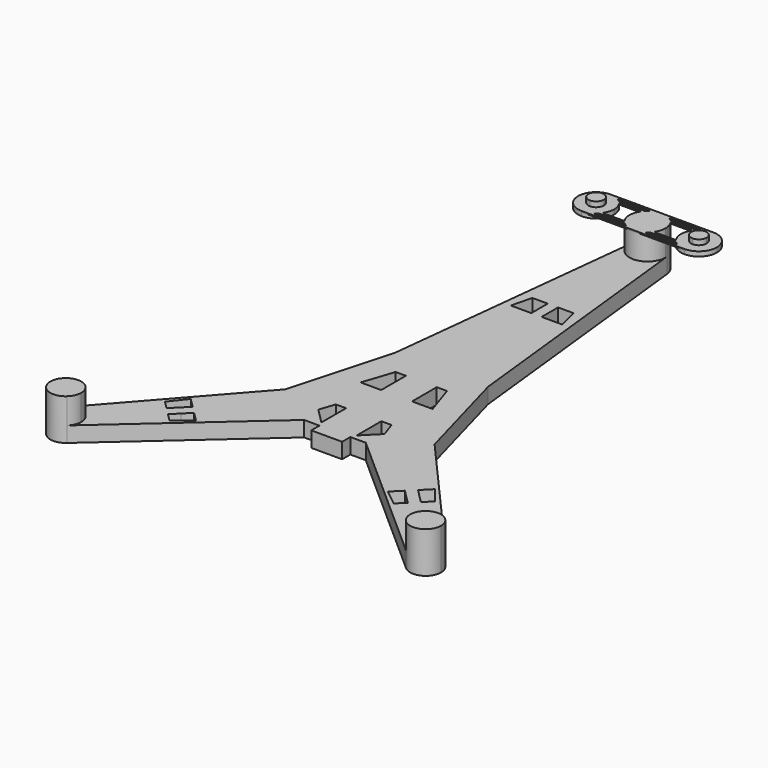
from build123d import *

# Parameters (mm, degrees)
F1_DEPTH = 7.62
F2_DEPTH = 20.32
F4_DEPTH = 0.508
F5_DEPTH = 2.286
F6_DEPTH = 2.54


with BuildPart() as f1:
    # F0 (on Top) → F1 (new body)
    with BuildSketch(Plane.XY):
        with BuildLine():
            Line((94.5998428664, -75.4545931138), (36.8017739816, -9.8610056184))
            Line((36.8017739816, -9.8610056184), (15.24, -25.4))
            Line((15.24, -25.4), (83.8282511998, -86.1946768381))
            ThreePointArc((83.8282511998, -86.1946768381), (83.5024239133, -75.0962557957), (94.5998428664, -75.4545931138))
        make_face()
        Polygon((47.393896559, -51.9350811917), (52.0636297419, -47.2653480087), (55.6557321903, -50.8574504572), (59.2478346388, -54.4495529056), (55.4019981606, -58.2953893838), align=None, mode=Mode.SUBTRACT)
        Polygon((62.8399370872, -50.8574504572), (59.2478346388, -47.2653480087), (55.6557321903, -43.6732455603), (60.3254653733, -39.0035123773), (66.6857735654, -47.011613979), align=None, mode=Mode.SUBTRACT)
        with BuildLine():
            Line((-15.24, -25.4), (-36.8017739816, -9.8610056184))
            Line((-36.8017739816, -9.8610056184), (-94.5998428664, -75.4545931138))
            ThreePointArc((-94.5998428664, -75.4545931138), (-86.1901329282, -73.3638602648), (-81.2626798383, -80.4922956567))
            ThreePointArc((-81.2626798383, -80.4922956567), (-81.9336098924, -83.618767612), (-83.8282511998, -86.1946768381))
            Line((-83.8282511998, -86.1946768381), (-15.24, -25.4))
        make_face()
        Polygon((-60.3254653733, -39.0035123773), (-55.6557321903, -43.6732455603), (-59.2478346388, -47.2653480087), (-62.8399370872, -50.8574504572), (-66.6857735654, -47.011613979), align=None, mode=Mode.SUBTRACT)
        Polygon((-55.6557321903, -50.8574504572), (-52.0636297419, -47.2653480087), (-47.393896559, -51.9350811917), (-55.4019981606, -58.2953893838), (-59.2478346388, -54.4495529056), align=None, mode=Mode.SUBTRACT)
        Polygon((-22.86, 40.64), (-36.8017739816, -9.8610056184), (-15.24, -25.4), (-7.62, -25.4), (0, -25.4), (7.62, -25.4), (15.24, -25.4), (36.8017739816, -9.8610056184), (22.86, 40.64), (0, 40.64), align=None)
        Polygon((-8.711533621, -7.62), (-8.711533621, -15.24), (-8.711533621, -22.86), (-16.331533621, -15.24), (-13.791533621, -7.62), align=None, mode=Mode.SUBTRACT)
        Polygon((-7.62, 27.94), (-7.62, 20.32), (-7.62, 12.7), (-17.78, 12.7), (-12.7, 27.94), align=None, mode=Mode.SUBTRACT)
        Polygon((8.711533621, -22.86), (8.711533621, -15.24), (8.711533621, -7.62), (13.791533621, -7.62), (16.331533621, -15.24), align=None, mode=Mode.SUBTRACT)
        Polygon((17.78, 12.7), (7.62, 12.7), (7.62, 20.32), (7.62, 27.94), (12.7, 27.94), align=None, mode=Mode.SUBTRACT)
        Polygon((0, -25.4), (-7.62, -25.4), (-7.62, -30.48), (7.62, -30.48), (7.62, -25.4), align=None)
        with BuildLine():
            Line((-8.8371004239, 168.6083780763), (-22.86, 40.64))
            Line((-22.86, 40.64), (0, 40.64))
            Line((0, 40.64), (22.86, 40.64))
            Line((22.86, 40.64), (8.8371004239, 168.6083780763))
            ThreePointArc((8.8371004239, 168.6083780763), (8.8767652545, 168.1249109361), (8.89, 167.64))
            ThreePointArc((8.89, 167.64), (-0.4849109361, 158.7632347455), (-8.8371004239, 168.6083780763))
        make_face()
        Polygon((-12.7, 99.06), (-10.16, 109.22), (-2.54, 109.22), (-2.54, 104.14), (-2.54, 99.06), align=None, mode=Mode.SUBTRACT)
        Polygon((2.54, 99.06), (2.54, 104.14), (2.54, 109.22), (10.16, 109.22), (12.7, 99.06), align=None, mode=Mode.SUBTRACT)
    extrude(amount=F1_DEPTH)


with BuildPart() as f2:
    # F0 (on Top) → F2 (new body)
    with BuildSketch(Plane.XY):
        with BuildLine():
            ThreePointArc((8.8371004239, 168.6083780763), (0, 176.53), (-8.8371004239, 168.6083780763))
            ThreePointArc((-8.8371004239, 168.6083780763), (-0.4849109361, 158.7632347455), (8.89, 167.64))
            ThreePointArc((8.89, 167.64), (8.8767652545, 168.1249109361), (8.8371004239, 168.6083780763))
        make_face()
    extrude(amount=F2_DEPTH)

    # F3 (on face) → F4 (join)
    with BuildSketch(Plane.XY.offset(20.32)):
        with BuildLine():
            Line((0, 176.53), (-25.4, 176.53))
            ThreePointArc((-25.4, 176.53), (-23.0240475594, 176.2066183527), (-20.8209498802, 175.26))
            Line((-20.8209498802, 175.26), (-4.5790501198, 175.26))
            ThreePointArc((-4.5790501198, 175.26), (-2.3759524406, 176.2066183527), (0, 176.53))
        make_face()
        with BuildLine():
            Line((-6.2217039467, 173.99), (-19.1782960533, 173.99))
            ThreePointArc((-19.1782960533, 173.99), (-18.6115859925, 173.3801685744), (-18.1044054389, 172.72))
            Line((-18.1044054389, 172.72), (-7.2955945611, 172.72))
            ThreePointArc((-7.2955945611, 172.72), (-6.7884140075, 173.3801685744), (-6.2217039467, 173.99))
        make_face()
        with BuildLine():
            Line((19.1782960533, 173.99), (6.2217039467, 173.99))
            ThreePointArc((6.2217039467, 173.99), (6.7884140075, 173.3801685744), (7.2955945611, 172.72))
            Line((7.2955945611, 172.72), (18.1044054389, 172.72))
            ThreePointArc((18.1044054389, 172.72), (18.6115859925, 173.3801685744), (19.1782960533, 173.99))
        make_face()
        with BuildLine():
            Line((25.4, 176.53), (0, 176.53))
            ThreePointArc((0, 176.53), (2.3759524406, 176.2066183527), (4.5790501198, 175.26))
            Line((4.5790501198, 175.26), (20.8209498802, 175.26))
            ThreePointArc((20.8209498802, 175.26), (23.0240475594, 176.2066183527), (25.4, 176.53))
        make_face()
        with BuildLine():
            ThreePointArc((-18.1044054389, 162.56), (-18.6115859925, 161.8998314256), (-19.1782960533, 161.29))
            Line((-19.1782960533, 161.29), (-6.2217039467, 161.29))
            ThreePointArc((-6.2217039467, 161.29), (-6.7884140075, 161.8998314256), (-7.2955945611, 162.56))
            Line((-7.2955945611, 162.56), (-18.1044054389, 162.56))
        make_face()
        with BuildLine():
            ThreePointArc((-20.8209498802, 160.02), (-23.0240475594, 159.0733816473), (-25.4, 158.75))
            Line((-25.4, 158.75), (-1.406e-07, 158.75))
            ThreePointArc((-1.406e-07, 158.75), (-2.3759525084, 159.0733816661), (-4.5790501198, 160.02))
            Line((-4.5790501198, 160.02), (-20.8209498802, 160.02))
        make_face()
        with BuildLine():
            ThreePointArc((4.5790501198, 160.02), (2.3759523728, 159.0733816286), (-1.406e-07, 158.75))
            Line((-1.406e-07, 158.75), (25.4, 158.75))
            ThreePointArc((25.4, 158.75), (23.0240475594, 159.0733816473), (20.8209498802, 160.02))
            Line((20.8209498802, 160.02), (4.5790501198, 160.02))
        make_face()
        with BuildLine():
            ThreePointArc((7.2955945611, 162.56), (6.7884140075, 161.8998314256), (6.2217039467, 161.29))
            Line((6.2217039467, 161.29), (19.1782960533, 161.29))
            ThreePointArc((19.1782960533, 161.29), (18.6115859925, 161.8998314256), (18.1044054389, 162.56))
            Line((18.1044054389, 162.56), (7.2955945611, 162.56))
        make_face()
    extrude(amount=-F4_DEPTH)

    # F3 (on face) → F5 (join)
    with BuildSketch(Plane.XY.offset(20.32)):
        with BuildLine():
            Line((-25.4, 175.26), (-25.4, 176.53))
            ThreePointArc((-25.4, 176.53), (-34.29, 167.64), (-25.4, 158.75))
            Line((-25.4, 158.75), (-25.4, 160.02))
            Line((-25.4, 160.02), (-25.4, 161.29))
            Line((-25.4, 161.29), (-25.4, 162.56))
            Line((-25.4, 162.56), (-25.4, 163.83))
            ThreePointArc((-25.4, 163.83), (-29.21, 167.64), (-25.4, 171.45))
            Line((-25.4, 171.45), (-25.4, 172.72))
            Line((-25.4, 172.72), (-25.4, 173.99))
            Line((-25.4, 173.99), (-25.4, 175.26))
        make_face()
        with BuildLine():
            Line((-18.1044054389, 172.72), (-25.4, 172.72))
            Line((-25.4, 172.72), (-25.4, 171.45))
            ThreePointArc((-25.4, 171.45), (-22.7059231637, 170.3340768363), (-21.59, 167.64))
            ThreePointArc((-21.59, 167.64), (-22.7059231637, 164.9459231637), (-25.4, 163.83))
            Line((-25.4, 163.83), (-25.4, 162.56))
            Line((-25.4, 162.56), (-18.1044054389, 162.56))
            ThreePointArc((-18.1044054389, 162.56), (-16.9179620477, 164.9778331803), (-16.51, 167.64))
            ThreePointArc((-16.51, 167.64), (-16.9179620477, 170.3021668197), (-18.1044054389, 172.72))
        make_face()
        with BuildLine():
            Line((-19.1782960533, 173.99), (-25.4, 173.99))
            Line((-25.4, 173.99), (-25.4, 172.72))
            Line((-25.4, 172.72), (-18.1044054389, 172.72))
            ThreePointArc((-18.1044054389, 172.72), (-18.6115859925, 173.3801685744), (-19.1782960533, 173.99))
        make_face()
        with BuildLine():
            Line((-20.8209498802, 175.26), (-25.4, 175.26))
            Line((-25.4, 175.26), (-25.4, 173.99))
            Line((-25.4, 173.99), (-19.1782960533, 173.99))
            ThreePointArc((-19.1782960533, 173.99), (-19.9624180833, 174.6731218459), (-20.8209498802, 175.26))
        make_face()
        with BuildLine():
            ThreePointArc((-20.8209498802, 175.26), (-23.0240475594, 176.2066183527), (-25.4, 176.53))
            Line((-25.4, 176.53), (-25.4, 175.26))
            Line((-25.4, 175.26), (-20.8209498802, 175.26))
        make_face()
        with BuildLine():
            Line((-25.4, 162.56), (-25.4, 161.29))
            Line((-25.4, 161.29), (-19.1782960533, 161.29))
            ThreePointArc((-19.1782960533, 161.29), (-18.6115859925, 161.8998314256), (-18.1044054389, 162.56))
            Line((-18.1044054389, 162.56), (-25.4, 162.56))
        make_face()
        with BuildLine():
            Line((-25.4, 161.29), (-25.4, 160.02))
            Line((-25.4, 160.02), (-20.8209498802, 160.02))
            ThreePointArc((-20.8209498802, 160.02), (-19.9624180833, 160.6068781541), (-19.1782960533, 161.29))
            Line((-19.1782960533, 161.29), (-25.4, 161.29))
        make_face()
        with BuildLine():
            Line((-25.4, 160.02), (-25.4, 158.75))
            ThreePointArc((-25.4, 158.75), (-23.0240475594, 159.0733816473), (-20.8209498802, 160.02))
            Line((-20.8209498802, 160.02), (-25.4, 160.02))
        make_face()
        with BuildLine():
            Line((25.4, 171.45), (25.4, 172.72))
            Line((25.4, 172.72), (18.1044054389, 172.72))
            ThreePointArc((18.1044054389, 172.72), (16.51, 167.64), (18.1044054389, 162.56))
            Line((18.1044054389, 162.56), (25.4, 162.56))
            Line((25.4, 162.56), (25.4, 163.83))
            ThreePointArc((25.4, 163.83), (21.59, 167.64), (25.4, 171.45))
        make_face()
        with BuildLine():
            ThreePointArc((34.29, 167.64), (31.6861792847, 173.9261792847), (25.4, 176.53))
            Line((25.4, 176.53), (25.4, 175.26))
            Line((25.4, 175.26), (25.4, 173.99))
            Line((25.4, 173.99), (25.4, 172.72))
            Line((25.4, 172.72), (25.4, 171.45))
            ThreePointArc((25.4, 171.45), (28.0940768363, 170.3340768363), (29.21, 167.64))
            ThreePointArc((29.21, 167.64), (28.0940768363, 164.9459231637), (25.4, 163.83))
            Line((25.4, 163.83), (25.4, 162.56))
            Line((25.4, 162.56), (25.4, 161.29))
            Line((25.4, 161.29), (25.4, 160.02))
            Line((25.4, 160.02), (25.4, 158.75))
            ThreePointArc((25.4, 158.75), (31.6861792847, 161.3538207153), (34.29, 167.64))
        make_face()
        with BuildLine():
            Line((25.4, 172.72), (25.4, 173.99))
            Line((25.4, 173.99), (19.1782960533, 173.99))
            ThreePointArc((19.1782960533, 173.99), (18.6115859925, 173.3801685744), (18.1044054389, 172.72))
            Line((18.1044054389, 172.72), (25.4, 172.72))
        make_face()
        with BuildLine():
            Line((25.4, 173.99), (25.4, 175.26))
            Line((25.4, 175.26), (20.8209498802, 175.26))
            ThreePointArc((20.8209498802, 175.26), (19.9624180833, 174.6731218459), (19.1782960533, 173.99))
            Line((19.1782960533, 173.99), (25.4, 173.99))
        make_face()
        with BuildLine():
            Line((25.4, 175.26), (25.4, 176.53))
            ThreePointArc((25.4, 176.53), (23.0240475594, 176.2066183527), (20.8209498802, 175.26))
            Line((20.8209498802, 175.26), (25.4, 175.26))
        make_face()
        with BuildLine():
            Line((19.1782960533, 161.29), (25.4, 161.29))
            Line((25.4, 161.29), (25.4, 162.56))
            Line((25.4, 162.56), (18.1044054389, 162.56))
            ThreePointArc((18.1044054389, 162.56), (18.6115859925, 161.8998314256), (19.1782960533, 161.29))
        make_face()
        with BuildLine():
            Line((20.8209498802, 160.02), (25.4, 160.02))
            Line((25.4, 160.02), (25.4, 161.29))
            Line((25.4, 161.29), (19.1782960533, 161.29))
            ThreePointArc((19.1782960533, 161.29), (19.9624180833, 160.6068781541), (20.8209498802, 160.02))
        make_face()
        with BuildLine():
            ThreePointArc((20.8209498802, 160.02), (23.0240475594, 159.0733816473), (25.4, 158.75))
            Line((25.4, 158.75), (25.4, 160.02))
            Line((25.4, 160.02), (20.8209498802, 160.02))
        make_face()
    extrude(amount=-F5_DEPTH)


with BuildPart() as f2b:
    # F0 (on Top) → F2, piece 2 (new body)
    with BuildSketch(Plane.XY):
        with BuildLine():
            ThreePointArc((96.5026798383, -80.4922956567), (96.0111152302, -77.7997487466), (94.5998428664, -75.4545931138))
            ThreePointArc((94.5998428664, -75.4545931138), (83.5024239133, -75.0962557957), (83.8282511998, -86.1946768381))
            ThreePointArc((83.8282511998, -86.1946768381), (92.0091517936, -87.4413656026), (96.5026798383, -80.4922956567))
        make_face()
    extrude(amount=F2_DEPTH)


with BuildPart() as f2c:
    # F0 (on Top) → F2, piece 3 (new body)
    with BuildSketch(Plane.XY):
        with BuildLine():
            ThreePointArc((-81.2626798383, -80.4922956567), (-86.1901329282, -73.3638602648), (-94.5998428664, -75.4545931138))
            ThreePointArc((-94.5998428664, -75.4545931138), (-94.2629357633, -85.8883355177), (-83.8282511998, -86.1946768381))
            ThreePointArc((-83.8282511998, -86.1946768381), (-81.9336098924, -83.618767612), (-81.2626798383, -80.4922956567))
        make_face()
    extrude(amount=F2_DEPTH)


with BuildPart() as f6:
    # F3 (on face) → F6 (new body)
    with BuildSketch(Plane.XY.offset(20.32)):
        with BuildLine():
            ThreePointArc((29.21, 167.64), (28.0940768363, 170.3340768363), (25.4, 171.45))
            Line((25.4, 171.45), (25.4, 163.83))
            ThreePointArc((25.4, 163.83), (28.0940768363, 164.9459231637), (29.21, 167.64))
        make_face()
        with BuildLine():
            Line((25.4, 163.83), (25.4, 171.45))
            ThreePointArc((25.4, 171.45), (21.59, 167.64), (25.4, 163.83))
        make_face()
    extrude(amount=F6_DEPTH)


with BuildPart() as f6b:
    # F3 (on face) → F6, piece 2 (new body)
    with BuildSketch(Plane.XY.offset(20.32)):
        with BuildLine():
            ThreePointArc((-21.59, 167.64), (-22.7059231637, 170.3340768363), (-25.4, 171.45))
            Line((-25.4, 171.45), (-25.4, 163.83))
            ThreePointArc((-25.4, 163.83), (-22.7059231637, 164.9459231637), (-21.59, 167.64))
        make_face()
        with BuildLine():
            Line((-25.4, 163.83), (-25.4, 171.45))
            ThreePointArc((-25.4, 171.45), (-29.21, 167.64), (-25.4, 163.83))
        make_face()
    extrude(amount=F6_DEPTH)


solid = Compound([f1.part, f2.part, f2b.part, f2c.part, f6.part, f6b.part])
